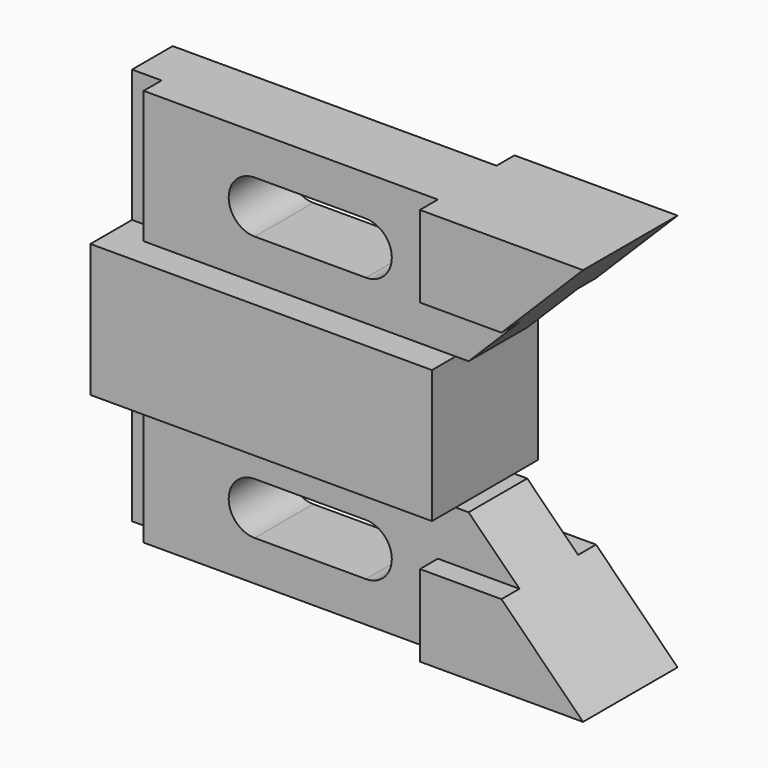
from build123d import *

# Parameters (mm, degrees)
F0_W          = 6.35
F0_H          = 28.448
F1_DEPTH      = 14.224
F3_W          = 4.826
F3_H          = 10.922
F4_DEPTH      = 73.407
F4_DEPTH_BACK = 31.243
F2_W          = 3.81
F2_H          = 1.524
F2_W_2        = 6.35
F2_H_2        = 4.826
F5_DEPTH      = 28.448


with BuildPart() as f1:
    # F0 (on Front) → F1 (new body, symmetric)
    with BuildSketch(Plane.XZ):
        Polygon((0, 0), (0, 14.2875), (-67.056, 14.2875), (-73.406, 14.2875), (-73.406, 0), align=None)
        Polygon((-67.056, 14.2875), (0, 14.2875), (2.794, 14.2875), (13.716, 25.2095), (-3.5814, 25.2095), (-3.5814, 42.7355), (-67.056, 42.7355), align=None)
        with BuildLine():
            Line((-19.304, 22.9235), (-43.18, 22.9235))
            ThreePointArc((-43.18, 22.9235), (-48.768, 28.5115), (-43.18, 34.0995))
            Line((-43.18, 34.0995), (-19.304, 34.0995))
            ThreePointArc((-19.304, 34.0995), (-13.716, 28.5115), (-19.304, 22.9235))
        make_face(mode=Mode.SUBTRACT)
        with Locations((-70.231, 28.5115)):
            Rectangle(F0_W, F0_H)
        Polygon((-3.5814, 25.2095), (13.716, 25.2095), (31.242, 42.7355), (-3.5814, 42.7355), align=None)
    extrude(amount=F1_DEPTH, both=True)

    # F3 (on face) → F4 (cut, two sides)
    with BuildSketch(Plane.YZ) as f4_sk:
        Polygon((-14.224, 42.7355), (-14.224, 14.2875), (-12.7, 14.2875), (-12.7, 25.2095), (-12.7, 42.7355), align=None)
        with Locations((-10.287, 19.7485)):
            Rectangle(F3_W, F3_H)
        Polygon((12.7, 14.2875), (14.224, 14.2875), (14.224, 42.7355), (12.7, 42.7355), (12.7, 25.2095), align=None)
        with Locations((10.287, 19.7485)):
            Rectangle(F3_W, F3_H)
    extrude(amount=-F4_DEPTH, mode=Mode.SUBTRACT)
    extrude(f4_sk.sketch, amount=F4_DEPTH_BACK, mode=Mode.SUBTRACT)

    # F2 (on face) → F5 (cut, through all)
    with BuildSketch(Plane.XY.offset(42.7355)):
        Polygon((-3.81, 14.224), (-73.406, 14.224), (-73.406, 7.874), (-3.81, 7.874), (-3.81, 12.7), align=None)
        with Locations((-1.905, 13.462)):
            Rectangle(F2_W, F2_H)
        with Locations((-1.905, -13.462)):
            Rectangle(F2_W, F2_H)
        Polygon((-73.406, -14.224), (-3.81, -14.224), (-3.81, -12.7), (-3.81, -7.874), (-67.056, -7.874), (-73.406, -7.874), align=None)
        with Locations((-70.231, -5.461)):
            Rectangle(F2_W_2, F2_H_2)
    extrude(amount=-F5_DEPTH, mode=Mode.SUBTRACT)

    # F6: F1 across plane


with BuildPart() as f1_1:
    add(f1.part)
    add(f1.part.mirror(Plane.XY))


solid = f1_1.part
